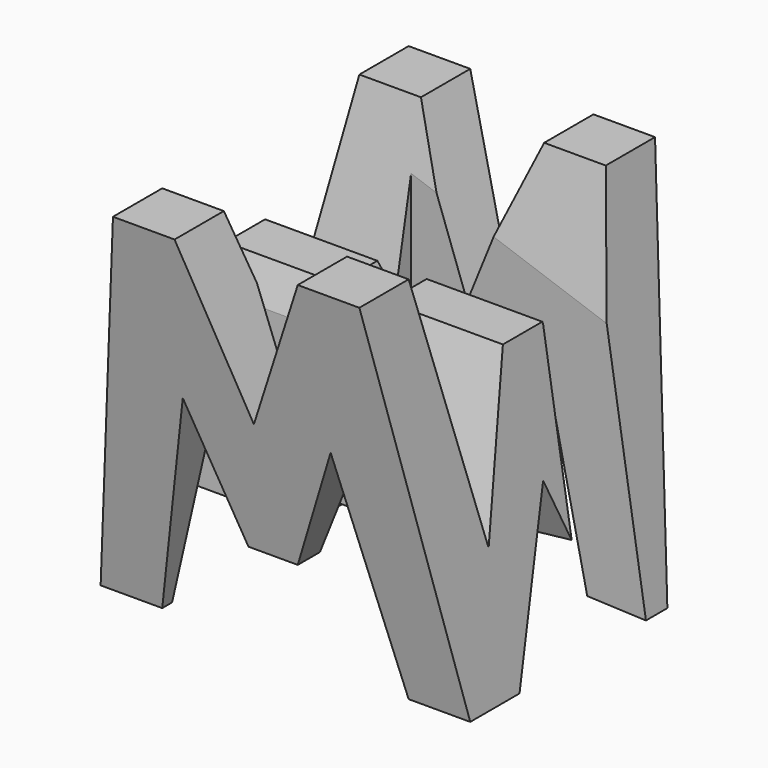
from build123d import *

# Parameters (mm, degrees)
F0_W      = 38.1
F0_H      = 38.1
F1_DEPTH  = 38.1
F6_DEPTH  = 76.2
F8_DEPTH  = 76.2
F9_W      = 25.4
F9_H      = 7.62
F10_DEPTH = 76.2


with BuildPart() as f1:
    # F0 (on Front) → F1 (new body)
    with BuildSketch(Plane.XZ):
        with Locations((19.05, 19.05)):
            Rectangle(F0_W, F0_H)
    extrude(amount=F1_DEPTH)

    # F5 (on offset) → F6 (cut)
    with BuildSketch(Plane.YZ.offset(76.2)):
        Polygon((-11.43, 12.5278225169), (-6.35, 38.1), (-31.75, 38.1), (-26.67, 13.0124986172), (-21.59, 28.575), (-16.51, 28.575), align=None)
        Polygon((-25.4, 0), (-12.7, 0), (-19.05, 15.875), align=None)
        Polygon((-38.1, 0), (-31.75, 0), (-38.1, 38.1), align=None)
        Polygon((-6.35, 0), (0, 0), (0, 38.1), align=None)
    extrude(amount=-F6_DEPTH, mode=Mode.SUBTRACT)

    # F7 (on offset) → F8 (cut)
    with BuildSketch(Plane.XZ.offset(76.2)):
        Polygon((25.4, 38.1), (12.7, 38.1), (18.7603693128, 22.225), align=None)
        Polygon((6.35, 38.1), (0, 38.1), (0, 0), align=None)
        Polygon((11.43, 22.225), (6.35, 0), (31.75, 0), (26.67, 22.225), (21.59, 9.525), (16.51, 9.525), align=None)
        Polygon((38.1, 38.1), (31.75, 38.1), (38.1, 0), align=None)
    extrude(amount=-F8_DEPTH, mode=Mode.SUBTRACT)

    # F9 (on offset) → F10 (cut)
    with BuildSketch(Plane.XY.offset(76.2)):
        Polygon((38.1, -16.7285427451), (38.1, -9.1085427451), (12.7, -7.62), (12.7, -15.24), align=None)
        with Locations((12.7, -26.67)):
            Rectangle(F9_W, F9_H)
    extrude(amount=-F10_DEPTH, mode=Mode.SUBTRACT)


solid = f1.part
